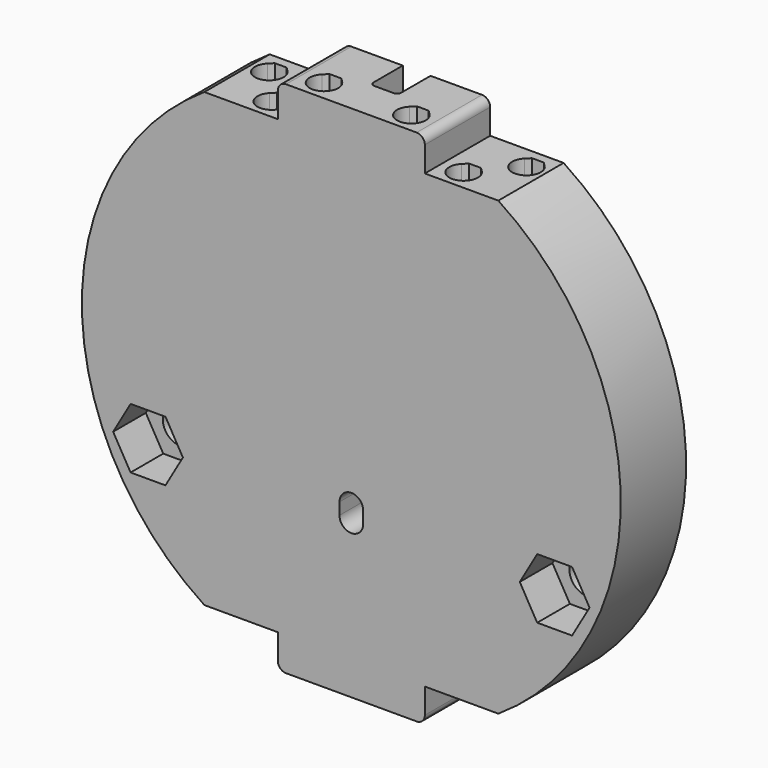
from build123d import *

# Parameters (mm, degrees)
PAD012_DEPTH    = 10
SKETCH027_W     = 3.4
SKETCH027_H     = 5
POCKET_DEPTH    = 30
POCKET012_DEPTH = 63.499031
SKETCH029_R     = 11
POCKET013_DEPTH = 3.5
POCKET014_DEPTH = 5
SKETCH031_R     = 2.2
POCKET015_DEPTH = 5.001
POCKET016_DEPTH = 243.669334
FILLET_R        = 0.5
FILLET001_R     = 1
FILLET002_R     = 1


with BuildPart() as part:
    # Sketch026 (on ShapeBinder) → Pad012 (new body)
    with BuildSketch(Plane.XZ.offset(47.5)):
        with BuildLine():
            ThreePointArc((18, -27.658633), (33, 0), (18, 27.658633))
            Line((18, 27.658633), (9, 27.658633))
            Line((9, 31.749016), (9, 27.658633))
            Line((-9, 31.749016), (9, 31.749016))
            Line((-9, 31.749016), (-9, 27.658633))
            Line((-18, 27.658633), (-9, 27.658633))
            ThreePointArc((-18, 27.658633), (-33, 0), (-18, -27.658633))
            Line((-18, -27.658633), (-9, -27.658633))
            Line((-9, -31.749016), (-9, -27.658633))
            Line((-9, -31.749016), (9, -31.749016))
            Line((9, -31.749016), (9, -27.658633))
            Line((18, -27.658633), (9, -27.658633))
        make_face()
        with BuildLine():
            ThreePointArc((-1.45, -12.6), (0, -14.05), (1.45, -12.6))
            Line((1.45, -12.6), (1.45, -11.15))
            ThreePointArc((1.45, -11.15), (0, -9.7), (-1.45, -11.15))
            Line((-1.45, -12.6), (-1.45, -11.15))
        make_face(mode=Mode.SUBTRACT)
    extrude(amount=PAD012_DEPTH)

    # Sketch027 (on Face4 of Pad012) → Pocket (cut)
    with BuildSketch(Plane(origin=(0, -4.5, 31.749016), x_dir=(1, 0, 0), z_dir=(0, 0, 1))):
        with Locations((0, -45.5)):
            Rectangle(SKETCH027_W, SKETCH027_H)
    extrude(amount=-POCKET_DEPTH, mode=Mode.SUBTRACT)

    # Sketch028 (on Face14 of Pocket) → Pocket012 (cut, through all)
    with BuildSketch(Plane(origin=(0, -4.5, 31.749016), x_dir=(1, 0, 0), z_dir=(0, 0, 1))):
        with BuildLine():
            Line((-6.074874, -48.75), (-4.625126, -48.75))
            Line((-4.112563, -49.262563), (-4.625126, -48.75))
            ThreePointArc((-6.587437, -49.262563), (-5.35, -52.25), (-4.112563, -49.262563))
            Line((-6.074874, -48.75), (-6.587437, -49.262563))
        make_face()
        with BuildLine():
            Line((4.625126, -48.75), (6.074874, -48.75))
            Line((6.587437, -49.262563), (6.074874, -48.75))
            ThreePointArc((4.112563, -49.262563), (5.35, -52.25), (6.587437, -49.262563))
            Line((4.625126, -48.75), (4.112563, -49.262563))
        make_face()
    extrude(amount=-POCKET012_DEPTH, mode=Mode.SUBTRACT)

    # Sketch029 (on Face4 of Pocket012) → Pocket013 (cut)
    with BuildSketch(Plane(origin=(0, -47.5, 0), x_dir=(-1, 0, 0), z_dir=(0, 1, 0))):
        with Locations((0, -12.6)):
            Circle(SKETCH029_R)
    extrude(amount=-POCKET013_DEPTH, mode=Mode.SUBTRACT)

    # Sketch030 (on Face5 of Pocket013) → Pocket014 (cut)
    with BuildSketch(Plane.XZ.offset(57.5)):
        Polygon((27.036196, -16.3), (29.172392, -12.6), (27.036196, -8.9), (22.763804, -8.9), (20.627608, -12.6), (22.763804, -16.3), align=None)
        Polygon((-22.763804, -16.3), (-20.627608, -12.6), (-22.763804, -8.9), (-27.036196, -8.9), (-29.172392, -12.6), (-27.036196, -16.3), align=None)
    extrude(amount=-POCKET014_DEPTH, mode=Mode.SUBTRACT)

    # Sketch031 (on Face46 of Pocket014) → Pocket015 (cut, through all)
    with BuildSketch(Plane.XZ.offset(52.5)):
        with Locations((24.9, -12.6)):
            Circle(SKETCH031_R)
        with Locations((-24.9, -12.6)):
            Circle(SKETCH031_R)
    extrude(amount=-POCKET015_DEPTH, mode=Mode.SUBTRACT)

    # Sketch032 (on Face3 of Pocket015) → Pocket016 (cut, through all)
    with BuildSketch(Plane(origin=(0, -4.5, 27.658633), x_dir=(1, 0, 0), z_dir=(0, 0, 1))):
        with BuildLine():
            Line((11.025126, -48.75), (12.474874, -48.75))
            Line((12.474874, -48.75), (12.987437, -49.262563))
            ThreePointArc((10.512563, -49.262563), (11.75, -52.25), (12.987437, -49.262563))
            Line((11.025126, -48.75), (10.512563, -49.262563))
        make_face()
        with BuildLine():
            Line((15.025126, -44.125), (16.474874, -44.125))
            Line((16.474874, -44.125), (16.987437, -44.637563))
            ThreePointArc((14.512563, -44.637563), (15.75, -47.625), (16.987437, -44.637563))
            Line((15.025126, -44.125), (14.512563, -44.637563))
        make_face()
    pocket016 = extrude(amount=-POCKET016_DEPTH, mode=Mode.SUBTRACT)

    # Mirrored: Pocket016 across Sketch032 V_Axis
    add(pocket016.mirror(Plane(origin=(0, -4.5, 27.658633), x_dir=(0, 0, 1), z_dir=(1, 0, 0))), mode=Mode.SUBTRACT)

    # Fillet
    fillet_edges = [part.edges().sort_by_distance(p)[0] for p in [
        (-1.7, -52.5, 16.749016),
        (1.7, -52.5, 16.749016),
    ]]
    fillet(fillet_edges, radius=FILLET_R)

    # Fillet001
    fillet001_edges = [part.edges().sort_by_distance(p)[0] for p in [
        (-9, -52.5, 31.749016),
        (9, -52.5, 31.749016),
    ]]
    fillet(fillet001_edges, radius=FILLET001_R)

    # Fillet002
    fillet002_edges = [part.edges().sort_by_distance(p)[0] for p in [
        (9, -52.5, -31.749016),
        (-9, -52.5, -31.749016),
    ]]
    fillet(fillet002_edges, radius=FILLET002_R)


solid = part.part
